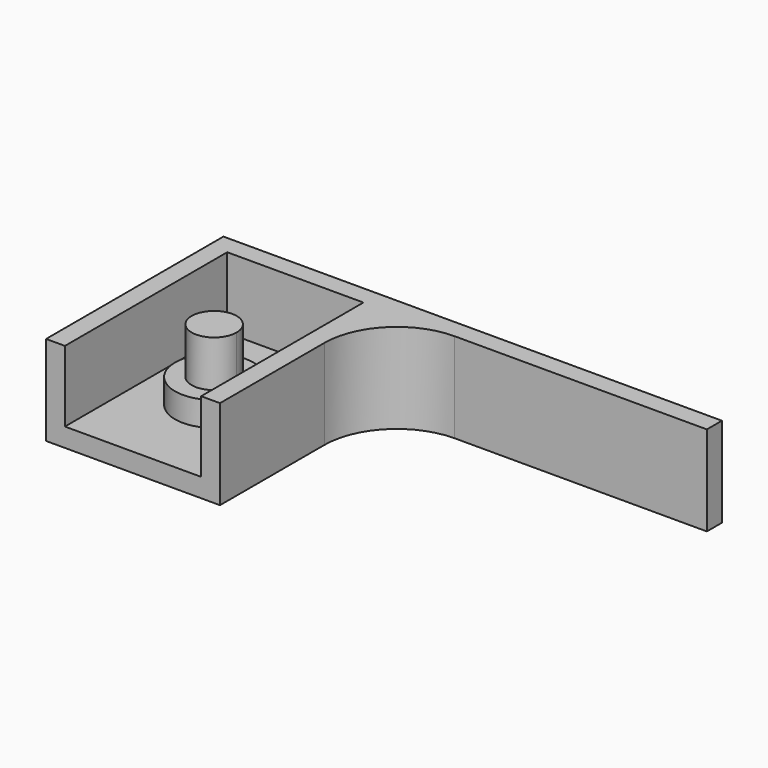
from build123d import *

# Parameters (mm, degrees)
F1_DEPTH = 6.2
F0_W     = 1.3
F0_H     = 14
F2_DEPTH = 3
F3_DEPTH = 1.3
F4_R     = 5


with BuildPart() as f1:
    # F0 (on Top) → F1 (new body)
    with BuildSketch(Plane.XY):
        with BuildLine():
            ThreePointArc((6.25, -7), (5.7960155108, -5.9039844892), (4.7, -5.45))
            Line((4.7, -5.45), (4.7, -7))
            Line((4.7, -7), (3.15, -7))
            ThreePointArc((3.15, -7), (4.7, -8.55), (6.25, -7))
        make_face()
        with BuildLine():
            Line((4.7, -7), (4.7, -5.45))
            ThreePointArc((4.7, -5.45), (3.6039844892, -5.9039844892), (3.15, -7))
            Line((3.15, -7), (4.7, -7))
        make_face()
    extrude(amount=F1_DEPTH)

    # F0 (on Top) → F2 (join)
    with BuildSketch(Plane.XY):
        with BuildLine():
            ThreePointArc((7.4, -7), (6.6091883092, -5.0908116908), (4.7, -4.3))
            Line((4.7, -4.3), (4.7, -5.45))
            ThreePointArc((4.7, -5.45), (5.7960155108, -5.9039844892), (6.25, -7))
            ThreePointArc((6.25, -7), (4.7, -8.55), (3.15, -7))
            Line((3.15, -7), (2, -7))
            ThreePointArc((2, -7), (4.7, -9.7), (7.4, -7))
        make_face()
        with BuildLine():
            Line((4.7, -5.45), (4.7, -4.3))
            ThreePointArc((4.7, -4.3), (2.7908116908, -5.0908116908), (2, -7))
            Line((2, -7), (3.15, -7))
            ThreePointArc((3.15, -7), (3.6039844892, -5.9039844892), (4.7, -5.45))
        make_face()
    extrude(amount=F2_DEPTH)



with BuildPart() as f1b:
    # F0 (on Top) → F1, piece 2 (new body)
    with BuildSketch(Plane.XY):
        Polygon((0, -7), (0, 0), (-1.3, 0), (-1.3, -14), (0, -14), align=None)
        with Locations((10.05, -7)):
            Rectangle(F0_W, F0_H)
        Polygon((-1.3, 0), (0, 0), (4.7, 0), (9.4, 0), (10.7, 0), (33.1, 0), (33.1, 1.3), (-1.3, 1.3), align=None)
    extrude(amount=F1_DEPTH)


with BuildPart() as f1_1:
    add(f1.part)

    add(f1b.part)  # F3 merges F1b
    # F0 (on Top) → F3 (join)
    with BuildSketch(Plane.XY):
        with BuildLine():
            Line((9.4, 0), (4.7, 0))
            Line((4.7, 0), (4.7, -4.3))
            ThreePointArc((4.7, -4.3), (6.6091883092, -5.0908116908), (7.4, -7))
            ThreePointArc((7.4, -7), (4.7, -9.7), (2, -7))
            Line((2, -7), (0, -7))
            Line((0, -7), (0, -14))
            Line((0, -14), (9.4, -14))
            Line((9.4, -14), (9.4, 0))
        make_face()
        with BuildLine():
            Line((4.7, 0), (0, 0))
            Line((0, 0), (0, -7))
            Line((0, -7), (2, -7))
            ThreePointArc((2, -7), (2.7908116908, -5.0908116908), (4.7, -4.3))
            Line((4.7, -4.3), (4.7, 0))
        make_face()
    extrude(amount=F3_DEPTH)

    # F4
    f4_edges = [f1_1.edges().sort_by_distance(p)[0] for p in [
        (10.7, 0, 3.1),
    ]]
    fillet(f4_edges, radius=F4_R)


solid = f1_1.part
